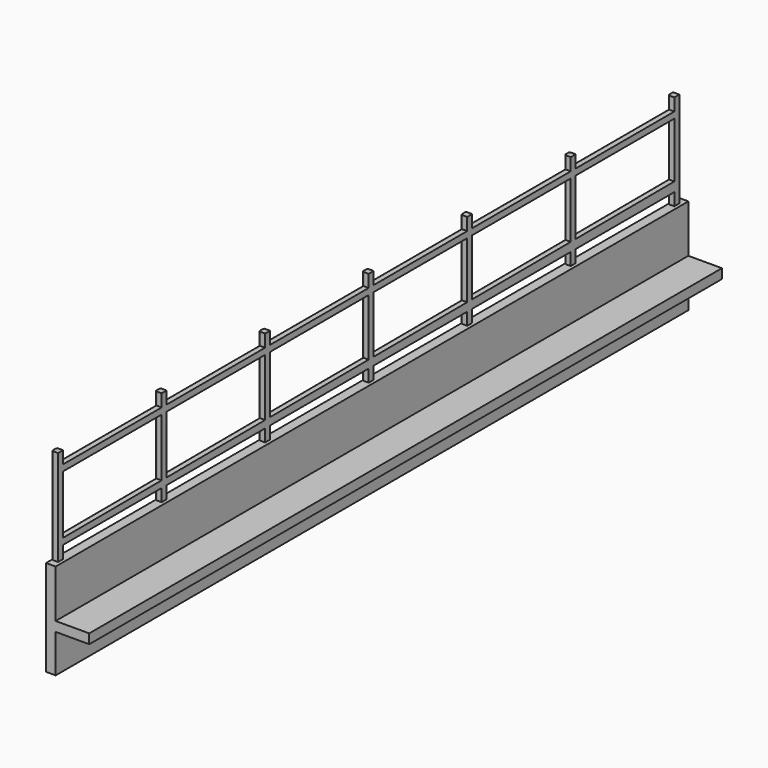
from build123d import *

# Parameters (mm, degrees)
F1_DEPTH = 165
F2_W     = 1.3
F2_H     = 1.3
F3_DEPTH = 20
F4_W     = 25.7
F4_H     = 1.3
F4_W_2   = 24.4
F5_DEPTH = 1.3
F6_R     = 0.3


with BuildPart() as f1:
    # F0 (on Front) → F1 (new body)
    with BuildSketch(Plane.XZ):
        Polygon((7, 0), (0, 0), (0, 10), (-2, 10), (-2, -10), (0, -10), (0, -2), (7, -2), align=None)
    extrude(amount=F1_DEPTH)

    # F2 (on face) → F3 (join)
    with BuildSketch(Plane.XY.offset(10)):
        with Locations((-1.35, -2.15)):
            Rectangle(F2_W, F2_H)
        with Locations((-1.35, -29.15)):
            Rectangle(F2_W, F2_H)
        with Locations((-1.35, -56.15)):
            Rectangle(F2_W, F2_H)
        with Locations((-1.35, -81.85)):
            Rectangle(F2_W, F2_H)
        with Locations((-1.35, -108.85)):
            Rectangle(F2_W, F2_H)
        with Locations((-1.35, -135.85)):
            Rectangle(F2_W, F2_H)
        with Locations((-1.35, -162.85)):
            Rectangle(F2_W, F2_H)
    extrude(amount=F3_DEPTH)

    # F4 (on face) → F5 (join)
    with BuildSketch(Plane(origin=(-2, 0, 0), x_dir=(0, -1, 0), z_dir=(-1, 0, 0))):
        Polygon((2.8, 14.5544293599), (2.8, 12.6), (28.5, 12.6), (28.5, 14.4497695307), align=None)
        with Locations((15.65, 26.75)):
            Rectangle(F4_W, F4_H)
        with Locations((42.65, 26.75)):
            Rectangle(F4_W, F4_H)
        Polygon((29.8, 14.4444754537), (29.8, 12.6), (55.5, 12.6), (55.5, 14.3398156246), align=None)
        with Locations((69, 26.75)):
            Rectangle(F4_W_2, F4_H)
        Polygon((56.8, 14.3345215476), (56.8, 12.6), (81.2, 12.6), (81.2, 14.2351557954), align=None)
        Polygon((82.5, 14.2298617184), (82.5, 12.6), (108.2, 12.6), (108.2, 14.1252018892), align=None)
        with Locations((95.35, 26.75)):
            Rectangle(F4_W, F4_H)
        with Locations((122.35, 26.75)):
            Rectangle(F4_W, F4_H)
        Polygon((109.5, 12.6), (135.2, 12.6), (135.2, 14.0152479831), (109.5, 14.1199078123), align=None)
        Polygon((136.5, 12.6), (162.2, 12.6), (162.2, 13.905294077), (136.5, 14.0099539061), align=None)
        with Locations((149.35, 26.75)):
            Rectangle(F4_W, F4_H)
    extrude(amount=-F5_DEPTH)

    # F6
    f6_edges = [f1.edges().sort_by_distance(p)[0] for p in [
        (-2, -135.2, 11.3),
        (-2, -136.5, 11.3),
        (-2, -149.35, 12.6),
        (-2, -149.35, 13.957624),
        (-2, -162.2, 11.3),
        (-2, -163.5, 20),
        (-2, -162.2, 20.002647),
        (-2, -149.35, 27.4),
        (-2, -149.35, 26.1),
        (-2, -136.5, 20.054977),
        (-2, -136.5, 28.7),
        (-2, -135.2, 28.7),
        (-2, -135.2, 20.057624),
        (-2, -122.35, 14.067578),
        (-2, -122.35, 12.6),
        (-2, -122.35, 26.1),
        (-2, -122.35, 27.4),
        (-2, -162.2, 28.7),
        (-2, -109.5, 28.7),
        (-2, -95.35, 27.4),
        (-2, -95.35, 14.177532),
        (-2, -108.2, 20.112601),
        (-2, -95.35, 12.6),
        (-2, -108.2, 11.3),
        (-2, -82.5, 20.164931),
        (-2, -82.5, 28.7),
        (-2, -69, 27.4),
        (-2, -69, 26.1),
        (-2, -81.2, 20.167578),
        (-2, -69, 14.284839),
        (-2, -69, 12.6),
        (-2, -82.5, 11.3),
        (-2, -81.2, 28.7),
        (-2, -81.2, 11.3),
        (-2, -56.8, 28.7),
        (-2, -56.8, 20.217261),
        (-2, -56.8, 11.3),
        (-2, -42.65, 12.6),
        (-2, -42.65, 14.392146),
        (-2, -55.5, 20.219908),
        (-2, -42.65, 26.1),
        (-2, -42.65, 27.4),
        (-2, -55.5, 28.7),
        (-2, -29.8, 28.7),
        (-2, -15.65, 27.4),
        (-2, -15.65, 26.1),
        (-2, -29.8, 20.272238),
        (-2, -28.5, 20.274885),
        (-2, -29.8, 11.3),
        (-2, -28.5, 28.7),
        (-2, -2.8, 28.7),
        (-2, -1.5, 20),
        (-2, -2.8, 20.327215),
        (-2, -15.65, 14.502099),
        (-2, -15.65, 12.6),
        (-2, -2.8, 11.3),
        (-2, -28.5, 11.3),
        (-2, -55.5, 11.3),
        (-2, -95.35, 26.1),
        (-2, -109.5, 11.3),
        (-2, -109.5, 20.109954),
        (-2, -108.2, 28.7),
    ]]
    fillet(f6_edges, radius=F6_R)


solid = f1.part
